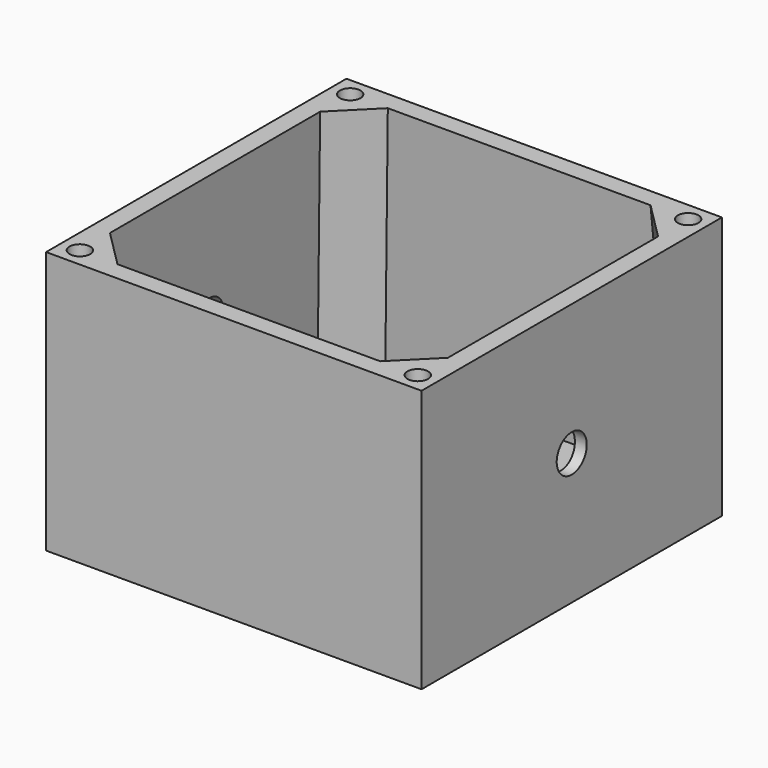
from build123d import *

# Parameters (mm, degrees)
F0_W       = 100
F0_H       = 100
F1_DEPTH   = 70
F2_W       = 90
F2_H       = 90
F3_DEPTH   = 65
F3_TAPER   = -3
F4_R       = 5
F1_FACE2_W = 100
F1_FACE2_H = 70
F5_DEPTH   = 100.001
F6_SIZE    = 10
F7_D       = 5.5
F7_DEPTH   = 12
F7_TIP     = 1.6523667023


with BuildPart() as f1:
    # F0 (on Top) → F1 (new body)
    with BuildSketch(Plane.XY):
        Rectangle(F0_W, F0_H)
    extrude(amount=F1_DEPTH)

    # F2 (on face) → F3 (cut)
    with BuildSketch(Plane.XY.offset(70)):
        Rectangle(F2_W, F2_H)
    extrude(amount=-F3_DEPTH, taper=F3_TAPER, mode=Mode.SUBTRACT)

    # F4 (on face) + F1_face2 (on face) → F5 (cut, through all)
    with BuildSketch(Plane.YZ.offset(50)):
        with Locations((0, 35)):
            Circle(F4_R)
    with BuildSketch(Plane(origin=(-50, 0, 35), x_dir=(0, -1, 0), z_dir=(-1, 0, 0))):
        Rectangle(F1_FACE2_W, F1_FACE2_H)
    extrude(amount=-F5_DEPTH, dir=(1, 0, 0), mode=Mode.SUBTRACT)

    # F6
    f6_edges = [f1.edges().sort_by_distance(p)[0] for p in [
        (46.703253, 46.703253, 37.5),
        (-46.703253, 46.703253, 37.5),
        (-46.703253, -46.703253, 37.5),
        (46.703253, -46.703253, 37.5),
    ]]
    chamfer(f6_edges, length=F6_SIZE)

    # F7
    with Locations(Plane.XY.offset(70)):
        with Locations((-45, -45), (-45, 45), (45, 45), (45, -45)):
            Hole(F7_D / 2, depth=F7_DEPTH)
            with Locations((0, 0, -(F7_DEPTH + F7_TIP / 2))):  # 118° drill point
                Cone(0, F7_D / 2, F7_TIP, mode=Mode.SUBTRACT)


solid = f1.part
